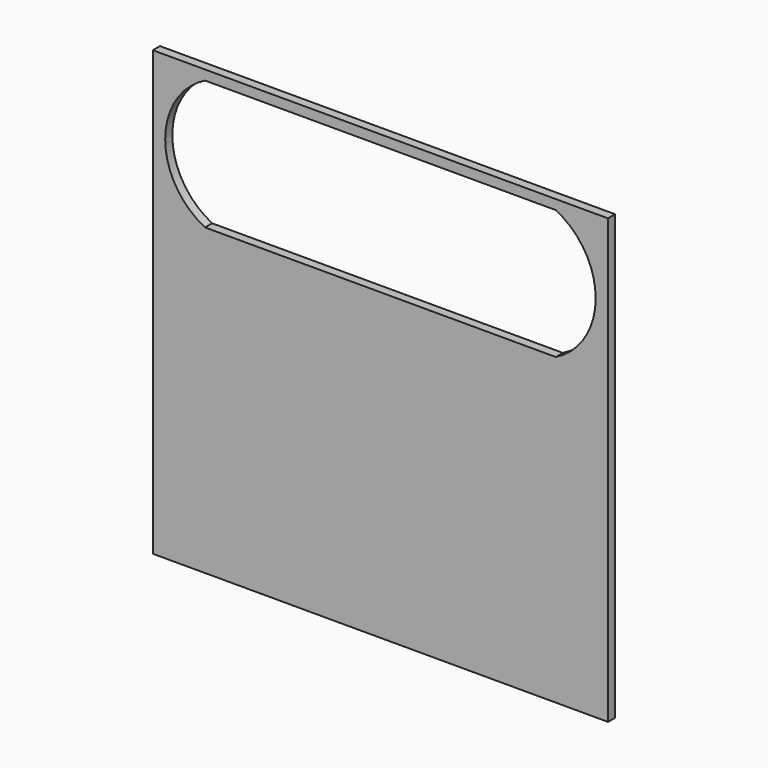
from build123d import *

# Parameters (mm, degrees)
F0_W     = 485.775
F0_H     = 473.075
F1_DEPTH = 9.525
F3_D     = 109.982
F4_DEPTH = 25.4


with BuildPart() as f1:
    # F0 (on Front) → F1 (new body)
    with BuildSketch(Plane.XZ):
        Rectangle(F0_W, F0_H)
    extrude(amount=F1_DEPTH)

    # F3 (through all)
    with Locations(Plane.XZ.offset(9.525)):
        with Locations((0, 157.1625)):
            Hole(F3_D / 2)

    # F2 (on face) → F4 (cut)
    with BuildSketch(Plane.XZ.offset(9.525)):
        with BuildLine():
            Line((-152.444478, 226.1625), (-187.189204, 226.1625))
            ThreePointArc((-187.189204, 226.1625), (-229.698578, 157.1625), (-187.189204, 88.1625))
            Line((-187.189204, 88.1625), (-152.444478, 88.1625))
            Line((-152.444478, 88.1625), (152.444478, 88.1625))
            Line((152.444478, 88.1625), (187.189204, 88.1625))
            ThreePointArc((187.189204, 88.1625), (229.698578, 157.1625), (187.189204, 226.1625))
            Line((187.189204, 226.1625), (152.444478, 226.1625))
            Line((152.444478, 226.1625), (-152.444478, 226.1625))
        make_face()
    extrude(amount=-F4_DEPTH, mode=Mode.SUBTRACT)


solid = f1.part
